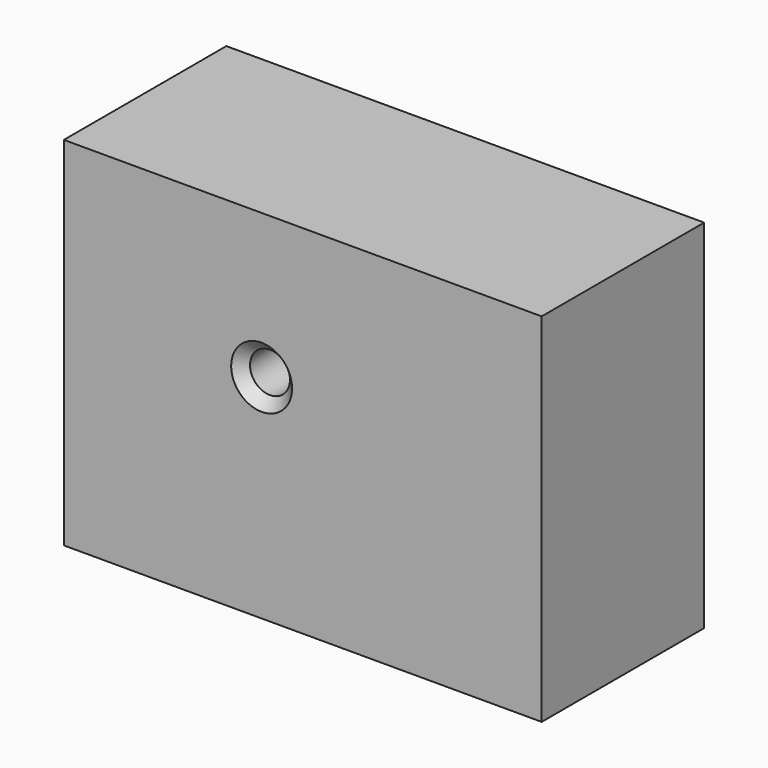
from build123d import *

# Parameters (mm, degrees)
F0_W           = 59.7585067153
F0_H           = 44.6528843604
F0_R           = 5.5279344662
F1_DEPTH       = 25.4
F2_D           = 5
F2_DEPTH       = 15.0876
F2_CSINK_D     = 7.62
F2_CSINK_ANGLE = 90
F2_TIP         = 1.5021515476


with BuildPart() as f1:
    # F0 (on Front) → F1 (new body)
    with BuildSketch(Plane.XZ):
        with Locations((-55.9406019747, 29.6302598435)):
            Rectangle(F0_W, F0_H)
        with Locations((-61.0864721239, 33.8631533086)):
            Circle(F0_R, mode=Mode.SUBTRACT)
        with Locations((-61.0864721239, 33.8631533086)):
            Circle(F0_R)
    extrude(amount=-F1_DEPTH)

    # F2
    with Locations(Plane.XZ):
        with Locations((-61.0864721239, 33.8631533086)):
            CounterSinkHole(F2_D / 2, F2_CSINK_D / 2, depth=F2_DEPTH, counter_sink_angle=F2_CSINK_ANGLE)
            with Locations((0, 0, -(F2_DEPTH + F2_TIP / 2))):  # 118° drill point
                Cone(0, F2_D / 2, F2_TIP, mode=Mode.SUBTRACT)


solid = f1.part
